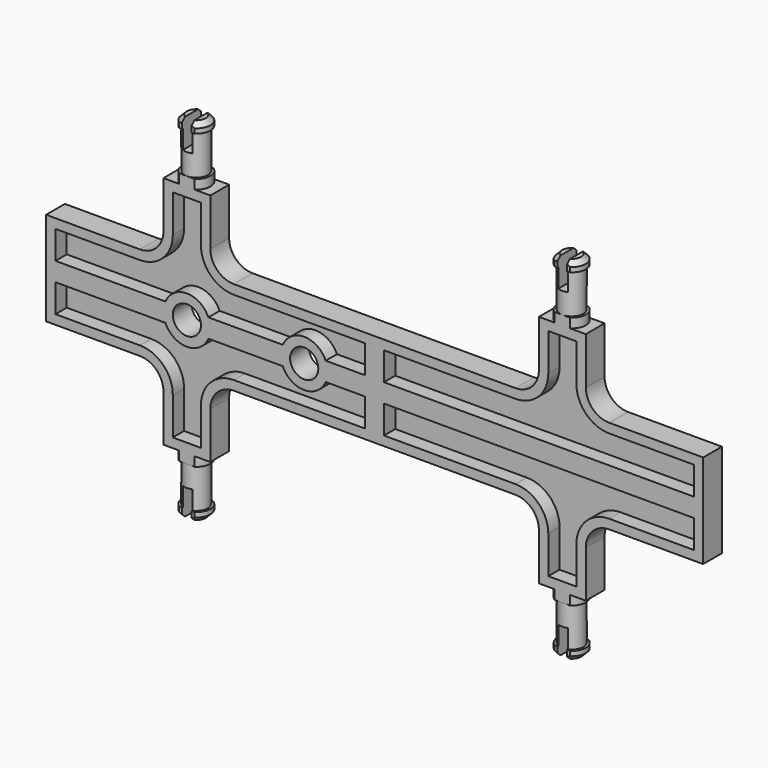
from build123d import *

# Parameters (mm, degrees)
F1_DEPTH  = 2.5
F2_T      = -2
F5_SIZE   = 1
F6_W      = 75
F6_H      = 5
F7_DEPTH  = 37.501
F8_W      = 2
F8_H      = 7.4999978279
F9_DEPTH  = 6
F12_R     = 5
F13_DEPTH = 5
F15_D     = 6


with BuildPart() as f1:
    # F0 (on Front) → F1 (new body, symmetric)
    with BuildSketch(Plane.XZ):
        with BuildLine():
            Line((0, 10), (0, 0))
            Line((0, 0), (70, 0))
            Line((70, 0), (70, 10))
            Line((70, 10), (50, 10))
            ThreePointArc((50, 10), (46.4644660941, 11.4644660941), (45, 15))
            Line((45, 15), (45, 25))
            Line((45, 25), (35, 25))
            Line((35, 25), (35, 15))
            ThreePointArc((35, 15), (33.5355339059, 11.4644660941), (30, 10))
            Line((30, 10), (0, 10))
        make_face()
    extrude(amount=F1_DEPTH, both=True)

    # F2
    f2_openings = [f1.faces().sort_by_distance(p)[0] for p in [
        (35.933685, -2.5, 7.254637),
    ]]
    offset(amount=F2_T, openings=f2_openings)

    # F3 (on Front) → F4 (revolve)
    with BuildSketch(Plane.XZ):
        Polygon((37, 25), (40, 25), (40, 37.5), (37, 37.5), (37, 35.5), (37.5, 35.5), (37.5, 27), (37, 27), align=None)
    revolve(axis=Axis((40, 0, 31.25), (0, 0, 1)))

    # F5
    f5_edges = [f1.edges().sort_by_distance(p)[0] for p in [
        (43, 0, 37.5),
    ]]
    chamfer(f5_edges, length=F5_SIZE)

    # F6 (on face) → F7 (intersect, through all)
    with BuildSketch(Plane.XY.offset(37.5)):
        with Locations((37.5, 0)):
            Rectangle(F6_W, F6_H)
    extrude(amount=-F7_DEPTH, mode=Mode.INTERSECT)

    # F8 (on face) → F9 (cut)
    with BuildSketch(Plane.XY.offset(37.5)):
        with Locations((40, 0.2893782221)):
            Rectangle(F8_W, F8_H)
    extrude(amount=-F9_DEPTH, mode=Mode.SUBTRACT)

    # F10: F1 across plane


with BuildPart() as f1_1:
    add(f1.part)
    add(f1.part.mirror(Plane.XY))

    # F11: F1 across plane


with BuildPart() as f1_2:
    add(f1_1.part)
    add(f1_1.part.mirror(Plane.YZ))

    # F12 (on face) → F13 (join, through all)
    with BuildSketch(Plane.XZ.offset(2.5)):
        with Locations((-40, 0)):
            Circle(F12_R)
        with Locations((-15, 0)):
            Circle(F12_R)
    extrude(amount=-F13_DEPTH)

    # F15 (through all)
    with Locations(Plane.XZ.offset(2.5)):
        with Locations((-40, 0), (-15, 0)):
            Hole(F15_D / 2)


solid = f1_2.part
